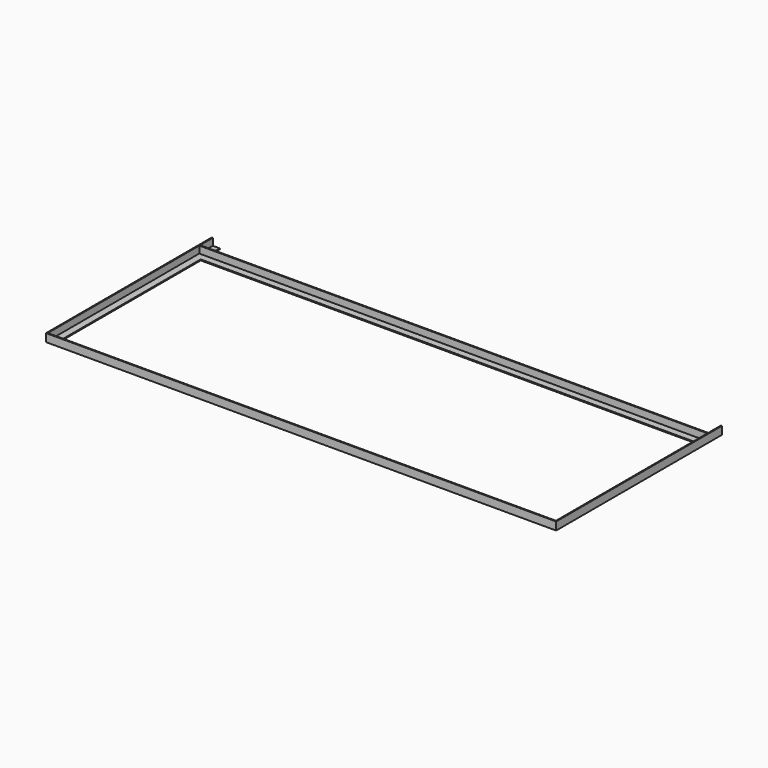
from build123d import *

# Parameters (mm, degrees)
F1_DEPTH = 1600
F3_DEPTH = 650
F5_DEPTH = 1600
F7_DEPTH = 650


with BuildPart() as f1:
    # F0 (on Right) → F1 (new body)
    with BuildSketch(Plane.YZ):
        Polygon((0, 25), (0, 0), (25, 0), (25, 3), (3, 3), (3, 25), align=None)
    extrude(amount=F1_DEPTH)

    # F2 (on Front) → F3 (join)
    with BuildSketch(Plane.XZ):
        Polygon((0, 25), (0, 0), (25, 0), (25, 3), (3, 3), (3, 25), align=None)
    extrude(amount=-F3_DEPTH)

    # F4 (on Right) → F5 (join)
    with BuildSketch(Plane.YZ):
        Polygon((600, 0), (600, 25), (597, 25), (597, 3), (575, 3), (575, 0), align=None)
    extrude(amount=F5_DEPTH)

    # F6 (on Front) → F7 (join)
    with BuildSketch(Plane.XZ):
        Polygon((1600, 0), (1600, 25), (1597, 25), (1597, 3), (1575, 3), (1575, 0), align=None)
    extrude(amount=-F7_DEPTH)


solid = f1.part
